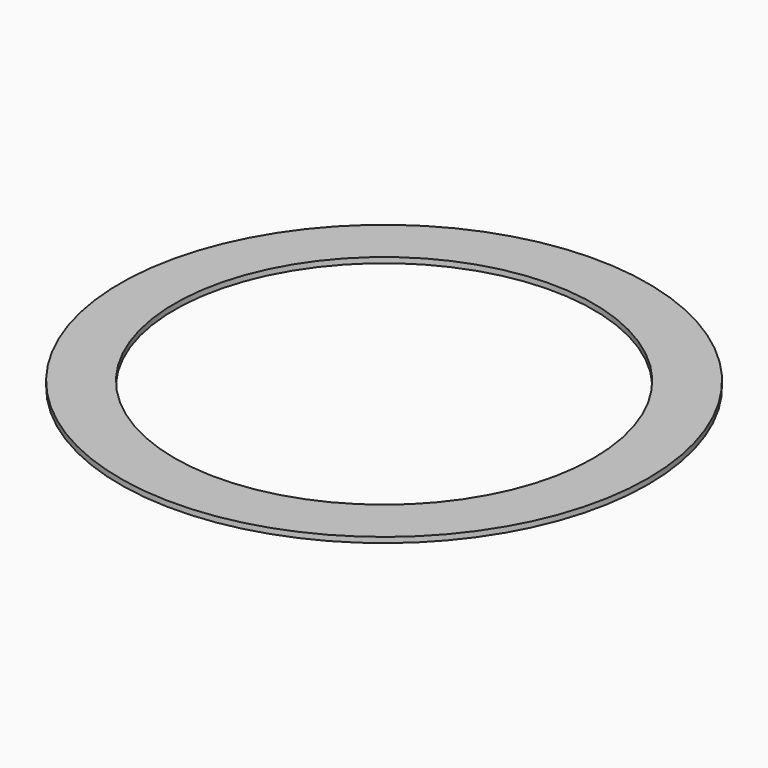
from build123d import *

# Parameters (mm, degrees)
CYLINDER002_R     = 38.4
CYLINDER002_DEPTH = 1
CYLINDER001_R     = 48.4
CYLINDER001_DEPTH = 1


with BuildPart() as bottom_wall_cutout:
    # Cylinder002 → Cylinder002 (new body)
    with BuildSketch(Plane.XY.offset(-1)):
        Circle(CYLINDER002_R)
    extrude(amount=CYLINDER002_DEPTH)


with BuildPart() as bottom_flange:
    # Cylinder001 → Cylinder001 (new body)
    with BuildSketch(Plane.XY.offset(-1)):
        Circle(CYLINDER001_R)
    extrude(amount=CYLINDER001_DEPTH)

    # Cut002: cut bottom_wall_cutout
    add(bottom_wall_cutout.part, mode=Mode.SUBTRACT)


solid = bottom_flange.part
